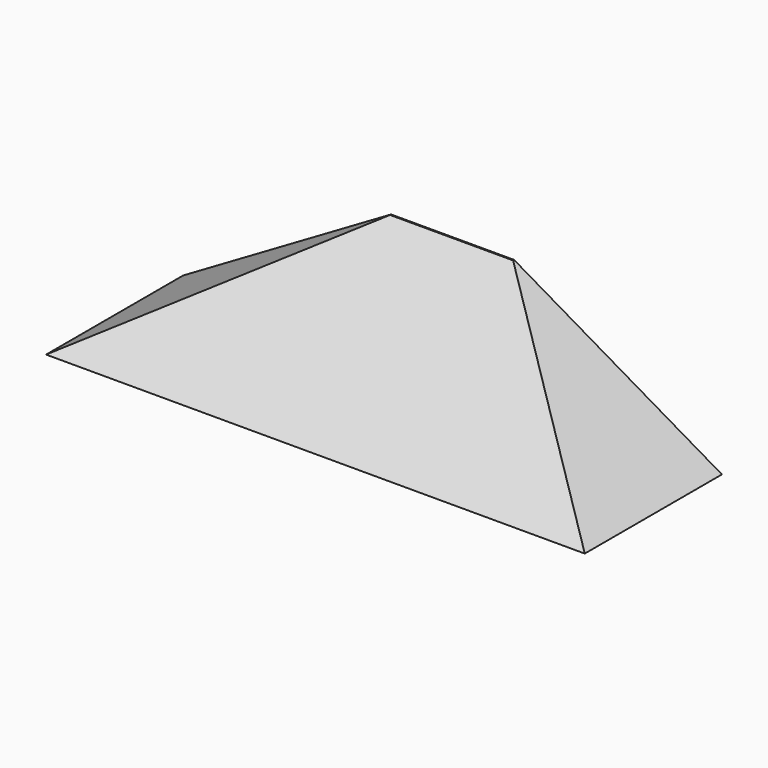
from build123d import *

# Parameters (mm, degrees)
F1_DEPTH      = 628
F3_DEPTH      = 1130.408226
F3_DEPTH_BACK = 839.593774


with BuildPart() as f1:
    # F0 (on Front) → F1 (new body)
    with BuildSketch(Plane.XZ):
        Polygon((-79.592774, 100.679896), (-839.592774, -342.941564), (1130.407226, -342.941564), (370.407226, 100.679896), align=None)
    extrude(amount=F1_DEPTH)

    # F2 (on Right) → F3 (cut, two sides)
    with BuildSketch(Plane.YZ) as f3_sk:
        Polygon((-632.281244, -346.79848), (0, 103.903234), (-632.281244, 103.903234), align=None)
    extrude(amount=F3_DEPTH, mode=Mode.SUBTRACT)
    extrude(f3_sk.sketch, amount=-F3_DEPTH_BACK, mode=Mode.SUBTRACT)


solid = f1.part
